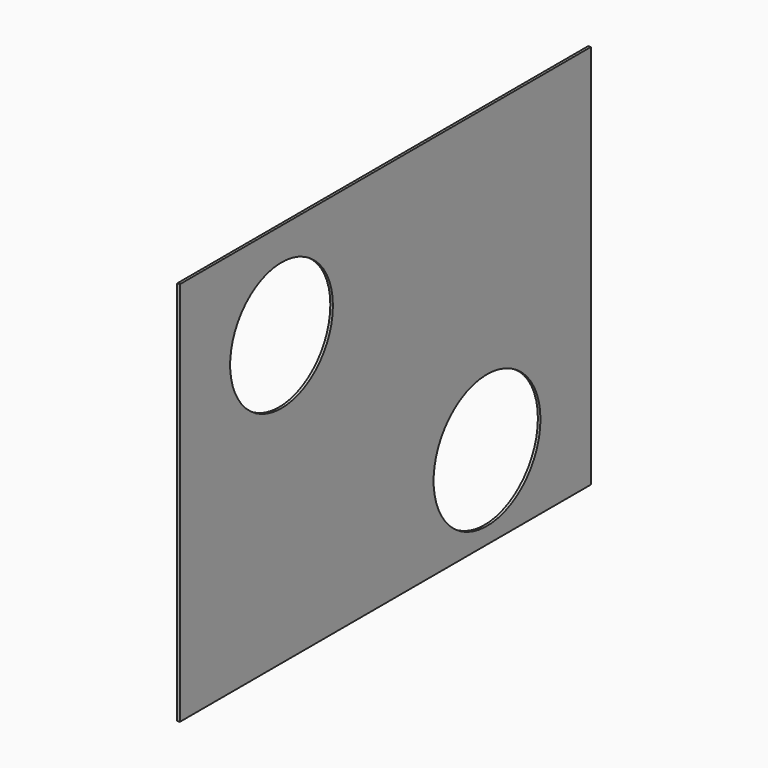
from build123d import *

# Parameters (mm, degrees)
F0_W     = 100
F0_H     = 75
F0_R     = 13
F0_R_2   = 12.5
F1_DEPTH = 0.25


with BuildPart() as f1:
    # F0 (on Right) → F1 (new body, symmetric)
    with BuildSketch(Plane.YZ):
        with Locations((-0.617871, -0.454985)):
            Rectangle(F0_W, F0_H)
        with Locations((24.134684, -21.767843)):
            Circle(F0_R, mode=Mode.SUBTRACT)
        with Locations((-25.865316, 18.232157)):
            Circle(F0_R_2, mode=Mode.SUBTRACT)
    extrude(amount=F1_DEPTH, both=True)


solid = f1.part
